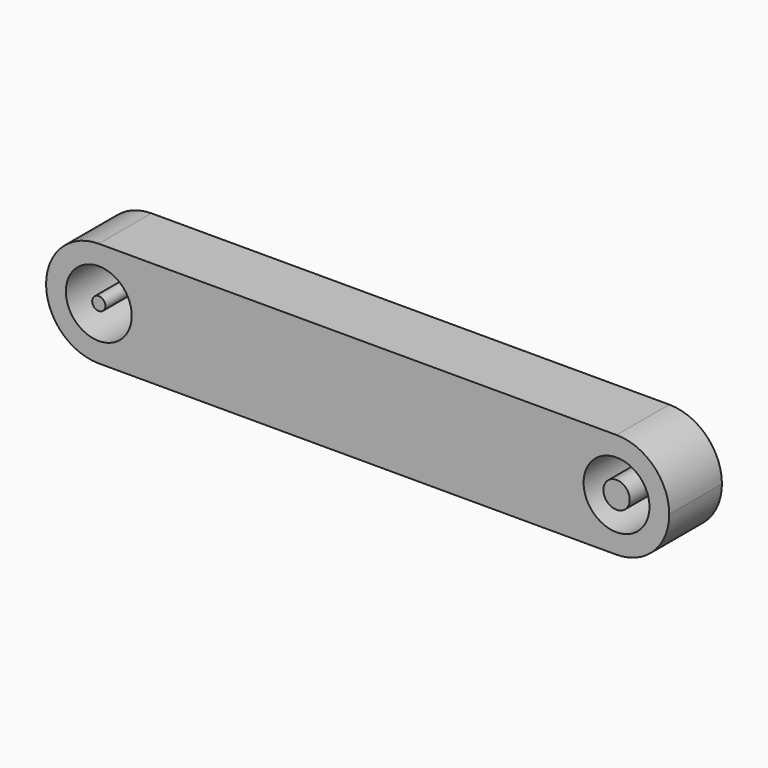
from build123d import *

# Parameters (mm, degrees)
F0_R     = 2.5
F0_R_2   = 0.5
F0_R_3   = 1
F1_DEPTH = 5


with BuildPart() as f1:
    # F0 (on Front) → F1 (new body)
    with BuildSketch(Plane.XZ):
        with BuildLine():
            ThreePointArc((0, -4), (2.828427, -2.828427), (4, 0))
            ThreePointArc((4, 0), (2.828427, 2.828427), (0, 4))
            ThreePointArc((0, 4), (-4, 0), (0, -4))
        make_face()
        Circle(F0_R, mode=Mode.SUBTRACT)
        with BuildLine():
            ThreePointArc((0, 4), (2.828427, 2.828427), (4, 0))
            ThreePointArc((4, 0), (2.828427, -2.828427), (0, -4))
            Line((0, -4), (39.3, -4))
            ThreePointArc((39.3, -4), (35.3, 0), (39.3, 4))
            Line((39.3, 4), (0, 4))
        make_face()
        with BuildLine():
            ThreePointArc((43.3, 0), (42.128427, 2.828427), (39.3, 4))
            ThreePointArc((39.3, 4), (35.3, 0), (39.3, -4))
            ThreePointArc((39.3, -4), (42.128427, -2.828427), (43.3, 0))
        make_face()
        with Locations((39.3, 0)):
            Circle(F0_R, mode=Mode.SUBTRACT)
        Circle(F0_R_2)
        with Locations((39.3, 0)):
            Circle(F0_R_3)
    extrude(amount=F1_DEPTH)


solid = f1.part
